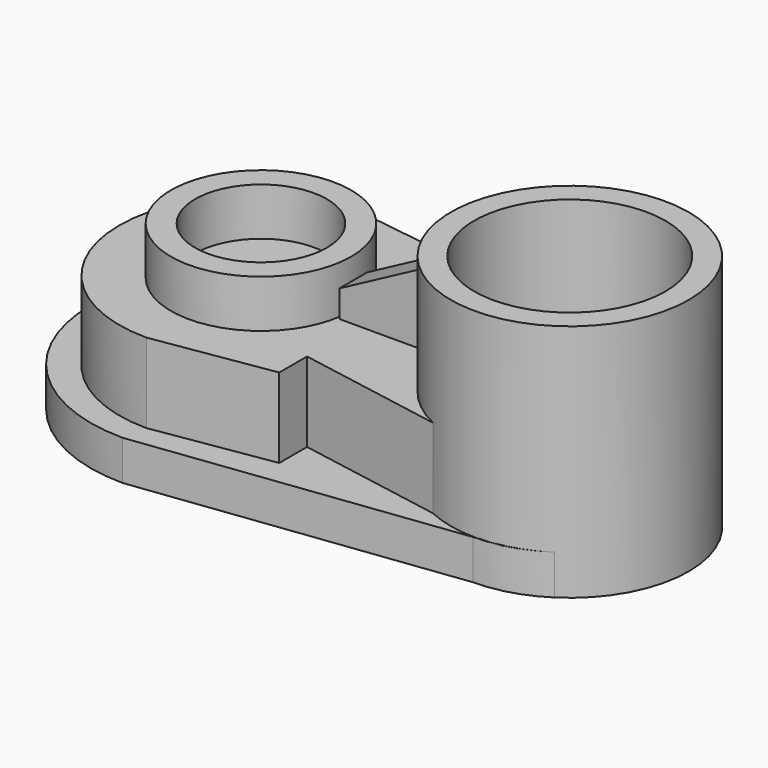
from build123d import *

# Parameters (mm, degrees)
F5_DEPTH  = 5
F1_R      = 14.9315093154
F6_DEPTH  = 30
F7_DEPTH  = 15
F3_R      = 11.3082404675
F3_R_2    = 8.2715191878
F8_DEPTH  = 21
F4_W      = 12.3962298967
F4_H      = 4.3726625154
F9_DEPTH  = 25
F11_DEPTH = 25
F12_R     = 12.0111757901
F13_DEPTH = 30


with BuildPart() as f5:
    # F0 (on Top) → F5 (new body)
    with BuildSketch(Plane.XY):
        with BuildLine():
            Line((8.6091840267, 15), (-31.3908159733, 20))
            ThreePointArc((-31.3908159733, 20), (-51.3908159733, 0), (-31.3908159733, -20))
            Line((-31.3908159733, -20), (8.6091840267, -15))
            ThreePointArc((8.6091840267, -15), (23.6091840267, 0), (8.6091840267, 15))
        make_face()
    extrude(amount=F5_DEPTH)

    # F1 (on face) → F6 (join)
    with BuildSketch(Plane.XY):
        with Locations((8.7348353118, 0)):
            Circle(F1_R)
    extrude(amount=F6_DEPTH)

    # F2 (on face) → F7 (join)
    with BuildSketch(Plane.XY):
        with BuildLine():
            Line((-16.0241960241, 14.8374513995), (-30.8759714769, 16.9409641518))
            ThreePointArc((-30.8759714769, 16.9409641518), (-47.8169356288, 0), (-30.8759714769, -16.9409641518))
            Line((-30.8759714769, -16.9409641518), (-16.060320359, -14.596506442))
            Line((-16.060320359, -14.596506442), (-16.060320359, -10.236135684))
            Line((-16.060320359, -10.236135684), (8.4618721157, -14.596506442))
            Line((8.4618721157, -14.596506442), (9.0077994391, 14.8374513995))
            Line((9.0077994391, 14.8374513995), (-16.0241960241, 10.782062076))
            Line((-16.0241960241, 10.782062076), (-16.0241960241, 14.8374513995))
        make_face()
    extrude(amount=F7_DEPTH)

    # F3 (on face) → F8 (join)
    with BuildSketch(Plane.XY):
        with Locations((-30.0259981304, 0)):
            Circle(F3_R)
        with Locations((-30.0259981304, 0)):
            Circle(F3_R_2, mode=Mode.SUBTRACT)
    extrude(amount=F8_DEPTH)

    # F4 (on face) → F9 (join)
    with BuildSketch(Plane.XY):
        with Locations((-12.3634112533, 0.1391041442)):
            Rectangle(F4_W, F4_H)
    extrude(amount=F9_DEPTH)

    # F10 (on face) → F11 (cut)
    with BuildSketch(Plane.XZ.offset(2.0472271135)):
        Polygon((-18.5615262017, 18.3737631887), (-6.165296305, 25), (-18.5615262017, 25), align=None)
    extrude(amount=-F11_DEPTH, mode=Mode.SUBTRACT)

    # F12 (on face) → F13 (cut)
    with BuildSketch(Plane.XY.offset(30)):
        with Locations((8.7348353118, 0)):
            Circle(F12_R)
    extrude(amount=-F13_DEPTH, mode=Mode.SUBTRACT)


solid = f5.part
